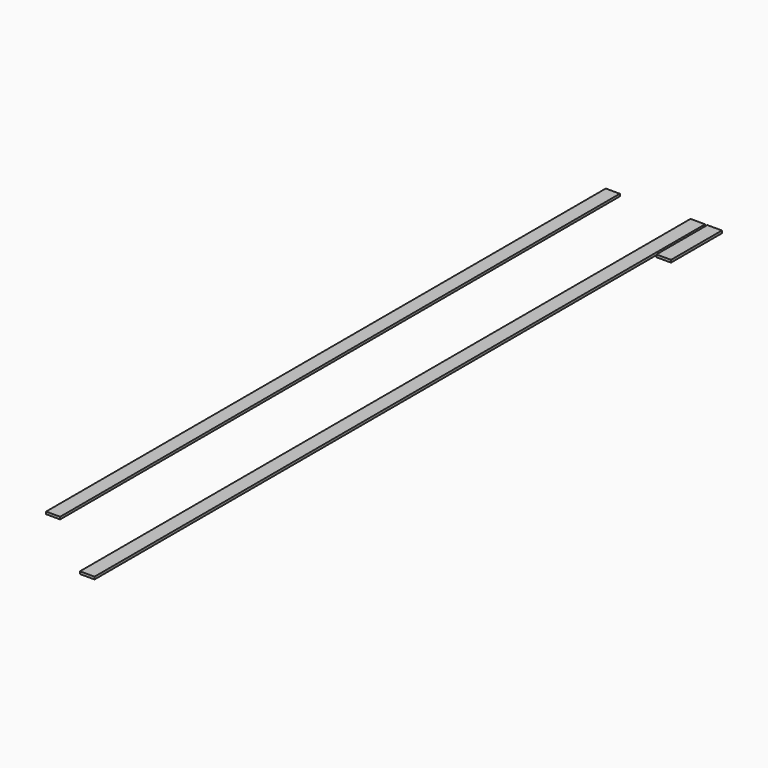
from build123d import *

# Parameters (mm, degrees)
F1_W     = 134.874
F1_H     = 22.86
F2_DEPTH = 6705.6
F0_W     = 139.7
F0_H     = 23.876
F3_DEPTH = 7315.2
F4_DEPTH = 609.6


with BuildPart() as f2:
    # F1 (on Front) → F2 (new body)
    with BuildSketch(Plane.XZ):
        with Locations((-891.046339, -7.312742)):
            Rectangle(F1_W, F1_H)
    extrude(amount=F2_DEPTH)


with BuildPart() as f3:
    # F0 (on Front) → F3 (new body)
    with BuildSketch(Plane.XZ):
        with Locations((-76.214892, 0.231927)):
            Rectangle(F0_W, F0_H)
    extrude(amount=F3_DEPTH)


with BuildPart() as f4:
    # F0 (on Front) → F4 (new body)
    with BuildSketch(Plane.XZ):
        with Locations((85.147511, 0.282716)):
            Rectangle(F0_W, F0_H)
    extrude(amount=F4_DEPTH)


solid = Compound([f2.part, f3.part, f4.part])
